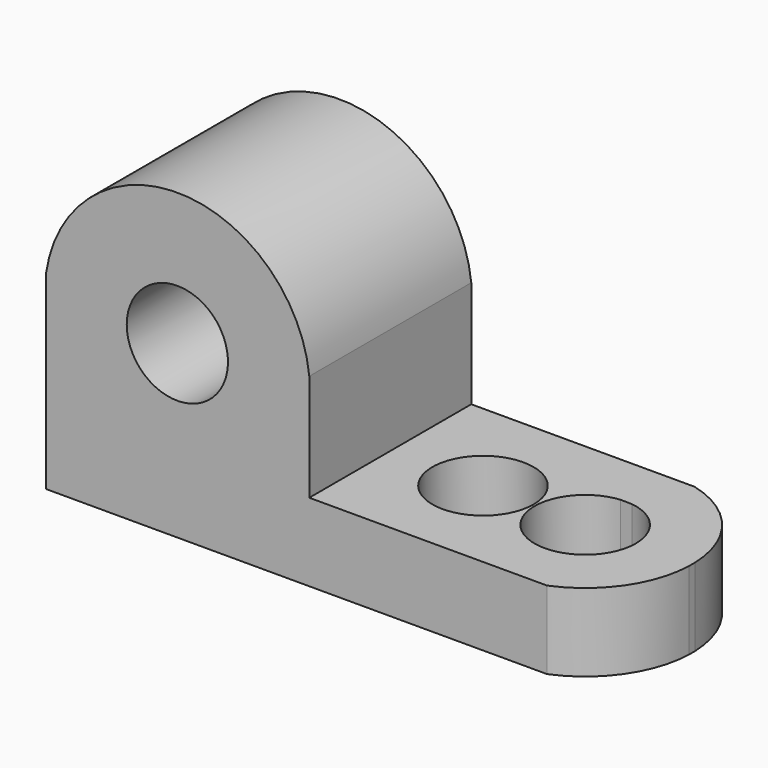
from build123d import *

# Parameters (mm, degrees)
F1_DEPTH  = 25.4
F3_DEPTH  = 25.401
F5_DEPTH  = 9.780613
F6_R      = 6.35
F7_DEPTH  = 25.401
F8_R      = 6.35
F11_DEPTH = 9.780613


with BuildPart() as f1:
    # F0 (on Front) → F1 (new body)
    with BuildSketch(Plane.XZ):
        Polygon((0, 38.1), (0, 0), (71.12, 0), (71.12, 9.779613), (33.02, 9.779613), (33.02, 38.1), align=None)
    extrude(amount=F1_DEPTH)

    # F2 (on face) → F3 (cut, through all)
    with BuildSketch(Plane.XZ.offset(25.4)):
        with BuildLine():
            ThreePointArc((0, 23.861155), (16.80079, 38.095578), (33.02, 23.20187))
            Line((33.02, 23.20187), (33.02, 38.1))
            Line((33.02, 38.1), (0, 38.1))
            Line((0, 38.1), (0, 23.861155))
        make_face()
    extrude(amount=-F3_DEPTH, mode=Mode.SUBTRACT)

    # F4 (on face) → F5 (cut, through all)
    with BuildSketch(Plane.XY.offset(9.779613)):
        with BuildLine():
            ThreePointArc((61.019834, 0), (68.153419, -4.578181), (71.12, -12.518407))
            Line((71.12, -12.518407), (71.12, 0))
            Line((71.12, 0), (61.019834, 0))
        make_face()
        with BuildLine():
            ThreePointArc((71.12, -13.490307), (68.731865, -20.658356), (62.849611, -25.4))
            Line((62.849611, -25.4), (71.12, -25.4))
            Line((71.12, -25.4), (71.12, -13.490307))
        make_face()
    extrude(amount=-F5_DEPTH, mode=Mode.SUBTRACT)

    # F6 (on face) → F7 (cut, through all)
    with BuildSketch(Plane(origin=(0, 0, 0), x_dir=(-1, 0, 0), z_dir=(0, 1, 0))):
        with Locations((-16.468551, 21.455578)):
            Circle(F6_R)
    extrude(amount=-F7_DEPTH, mode=Mode.SUBTRACT)

    # F10 (on face) + F8 (on face) → F11 (cut, through all)
    with BuildSketch(Plane.XY.offset(9.779613)):
        with BuildLine():
            Line((58.540852, -6.708974), (57.118951, -6.681905))
            ThreePointArc((57.118951, -6.681905), (53.433667, -17.698736), (64.059799, -13.004357))
            ThreePointArc((64.059799, -13.004357), (62.484717, -8.81835), (58.540852, -6.708974))
        make_face()
    with BuildSketch(Plane.XY.offset(9.779613)):
        with Locations((44.713352, -12.77754)):
            Circle(F8_R)
    extrude(amount=-F11_DEPTH, mode=Mode.SUBTRACT)


solid = f1.part
